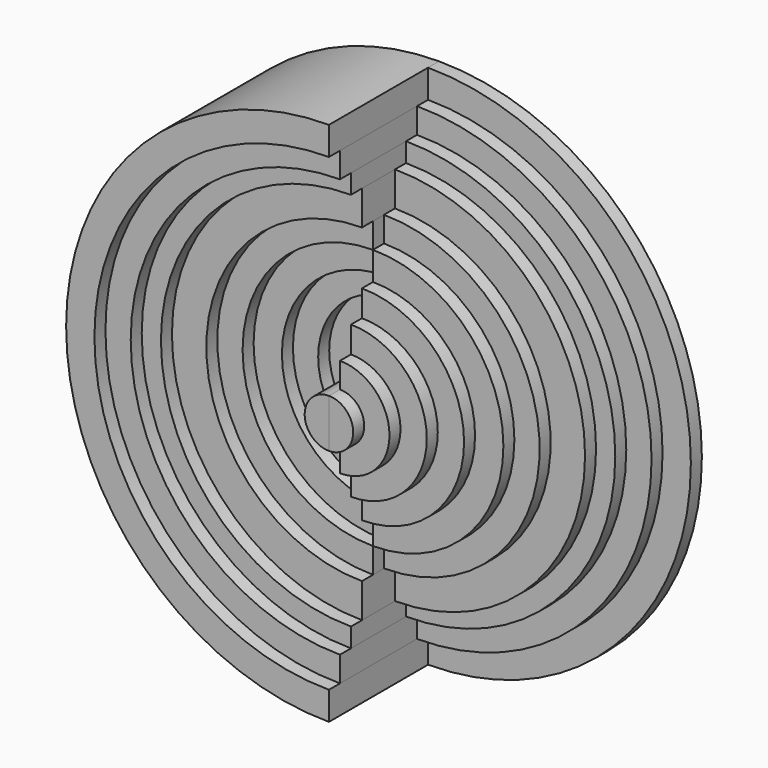
from build123d import *

# Parameters (mm, degrees)
F1_DEPTH  = 2.54
F2_DEPTH  = 5.08
F3_DEPTH  = 7.62
F4_DEPTH  = 10.16
F5_DEPTH  = 12.7
F6_DEPTH  = 15.24
F7_DEPTH  = 17.78
F8_DEPTH  = 20.32
F9_DEPTH  = 22.86
F10_DEPTH = 25.4
F11_DEPTH = 25.4


with BuildPart() as f1:
    # F0 (on Front) → F1 (new body)
    with BuildSketch(Plane.XZ):
        with BuildLine():
            Line((0, 48.490912), (0, 43.268811))
            ThreePointArc((0, 43.268811), (43.268811, 0), (0, -43.268811))
            Line((0, -43.268811), (0, -48.490912))
            ThreePointArc((0, -48.490912), (48.490912, 0), (0, 48.490912))
        make_face()
    extrude(amount=F1_DEPTH)


with BuildPart() as f2:
    # F0 (on Front) → F2 (new body)
    with BuildSketch(Plane.XZ):
        with BuildLine():
            ThreePointArc((0, -4.476084), (-4.476084, 0), (0, 4.476084))
            Line((0, 4.476084), (0, 9.138672))
            ThreePointArc((0, 9.138672), (-9.327078, 0), (0, -9.138672))
            Line((0, -9.138672), (0, -4.476084))
        make_face()
        with BuildLine():
            Line((0, 43.268811), (0, 38.606223))
            ThreePointArc((0, 38.606223), (38.606223, 0), (0, -38.606223))
            Line((0, -38.606223), (0, -43.268811))
            ThreePointArc((0, -43.268811), (43.268811, 0), (0, 43.268811))
        make_face()
    extrude(amount=F2_DEPTH)


with BuildPart() as f3:
    # F0 (on Front) → F3 (new body)
    with BuildSketch(Plane.XZ):
        with BuildLine():
            ThreePointArc((0, -9.138672), (-9.327078, 0), (0, 9.138672))
            Line((0, 9.138672), (0, 13.987763))
            ThreePointArc((0, 13.987763), (-14.17551, 0), (0, -13.987763))
            Line((0, -13.987763), (0, -9.138672))
        make_face()
        with BuildLine():
            Line((0, 38.606223), (0, 35.062656))
            ThreePointArc((0, 35.062656), (35.062656, 0), (0, -35.062656))
            Line((0, -35.062656), (0, -38.606223))
            ThreePointArc((0, -38.606223), (38.606223, 0), (0, 38.606223))
        make_face()
    extrude(amount=F3_DEPTH)


with BuildPart() as f4:
    # F0 (on Front) → F4 (new body)
    with BuildSketch(Plane.XZ):
        with BuildLine():
            ThreePointArc((0, -13.987763), (-14.17551, 0), (0, 13.987763))
            Line((0, 13.987763), (0, 18.836854))
            ThreePointArc((0, 18.836854), (-18.836854, 0), (0, -18.836854))
            Line((0, -18.836854), (0, -13.987763))
        make_face()
        with BuildLine():
            Line((0, 35.062656), (0, 28.721539))
            ThreePointArc((0, 28.721539), (28.721539, 0), (0, -28.721539))
            Line((0, -28.721539), (0, -35.062656))
            ThreePointArc((0, -35.062656), (35.062656, 0), (0, 35.062656))
        make_face()
    extrude(amount=F4_DEPTH)


with BuildPart() as f5:
    # F0 (on Front) → F5 (new body)
    with BuildSketch(Plane.XZ):
        with BuildLine():
            ThreePointArc((0, -18.836854), (-18.836854, 0), (0, 18.836854))
            Line((0, 18.836854), (0, 24.058951))
            ThreePointArc((0, 24.058951), (-24.058951, 0), (0, -24.058951))
            Line((0, -24.058951), (0, -18.836854))
        make_face()
        with BuildLine():
            Line((0, 28.721539), (0, 24.058951))
            ThreePointArc((0, 24.058951), (24.058951, 0), (0, -24.058951))
            Line((0, -24.058951), (0, -28.721539))
            ThreePointArc((0, -28.721539), (28.721539, 0), (0, 28.721539))
        make_face()
    extrude(amount=F5_DEPTH)


with BuildPart() as f6:
    # F0 (on Front) → F6 (new body)
    with BuildSketch(Plane.XZ):
        with BuildLine():
            Line((0, 24.058951), (0, 18.836854))
            ThreePointArc((0, 18.836854), (18.836854, 0), (0, -18.836854))
            Line((0, -18.836854), (0, -24.058951))
            ThreePointArc((0, -24.058951), (24.058951, 0), (0, 24.058951))
        make_face()
        with BuildLine():
            ThreePointArc((0, -24.058951), (-24.058951, 0), (0, 24.058951))
            Line((0, 24.058951), (0, 28.721539))
            ThreePointArc((0, 28.721539), (-28.721539, 0), (0, -28.721539))
            Line((0, -28.721539), (0, -24.058951))
        make_face()
    extrude(amount=F6_DEPTH)


with BuildPart() as f7:
    # F0 (on Front) → F7 (new body)
    with BuildSketch(Plane.XZ):
        with BuildLine():
            ThreePointArc((0, -28.721539), (-28.721539, 0), (0, 28.721539))
            Line((0, 28.721539), (0, 35.062656))
            ThreePointArc((0, 35.062656), (-35.062656, 0), (0, -35.062656))
            Line((0, -35.062656), (0, -28.721539))
        make_face()
        with BuildLine():
            Line((0, 18.836854), (0, 13.987763))
            ThreePointArc((0, 13.987763), (13.987763, 0), (0, -13.987763))
            Line((0, -13.987763), (0, -18.836854))
            ThreePointArc((0, -18.836854), (18.836854, 0), (0, 18.836854))
        make_face()
    extrude(amount=F7_DEPTH)


with BuildPart() as f8:
    # F0 (on Front) → F8 (new body)
    with BuildSketch(Plane.XZ):
        with BuildLine():
            Line((0, 13.987763), (0, 9.138672))
            ThreePointArc((0, 9.138672), (9.138672, 0), (0, -9.138672))
            Line((0, -9.138672), (0, -13.987763))
            ThreePointArc((0, -13.987763), (13.987763, 0), (0, 13.987763))
        make_face()
        with BuildLine():
            ThreePointArc((0, -35.062656), (-35.062656, 0), (0, 35.062656))
            Line((0, 35.062656), (0, 38.606223))
            ThreePointArc((0, 38.606223), (-38.606223, 0), (0, -38.606223))
            Line((0, -38.606223), (0, -35.062656))
        make_face()
    extrude(amount=F8_DEPTH)


with BuildPart() as f9:
    # F0 (on Front) → F9 (new body)
    with BuildSketch(Plane.XZ):
        with BuildLine():
            ThreePointArc((0, -38.606223), (-38.606223, 0), (0, 38.606223))
            Line((0, 38.606223), (0, 43.268811))
            ThreePointArc((0, 43.268811), (-43.268811, 0), (0, -43.268811))
            Line((0, -43.268811), (0, -38.606223))
        make_face()
        with BuildLine():
            Line((0, 9.138672), (0, 4.476084))
            ThreePointArc((0, 4.476084), (4.476084, 0), (0, -4.476084))
            Line((0, -4.476084), (0, -9.138672))
            ThreePointArc((0, -9.138672), (9.138672, 0), (0, 9.138672))
        make_face()
    extrude(amount=F9_DEPTH)


with BuildPart() as f10:
    # F0 (on Front) → F10 (new body)
    with BuildSketch(Plane.XZ):
        with BuildLine():
            ThreePointArc((0, -43.268811), (-43.268811, 0), (0, 43.268811))
            Line((0, 43.268811), (0, 48.490912))
            ThreePointArc((0, 48.490912), (-48.490912, 0), (0, -48.490912))
            Line((0, -48.490912), (0, -43.268811))
        make_face()
        with BuildLine():
            ThreePointArc((0, -4.476084), (4.476084, 0), (0, 4.476084))
            Line((0, 4.476084), (0, -4.476084))
        make_face()
    extrude(amount=F10_DEPTH)


with BuildPart() as f11:
    # F0 (on Front) → F11 (new body)
    with BuildSketch(Plane.XZ):
        with BuildLine():
            Line((0, -4.476084), (0, 4.476084))
            ThreePointArc((0, 4.476084), (-4.476084, 0), (0, -4.476084))
        make_face()
    extrude(amount=F11_DEPTH)


solid = Compound([f1.part, f2.part, f3.part, f4.part, f5.part, f6.part, f7.part, f8.part, f9.part, f10.part, f11.part])
